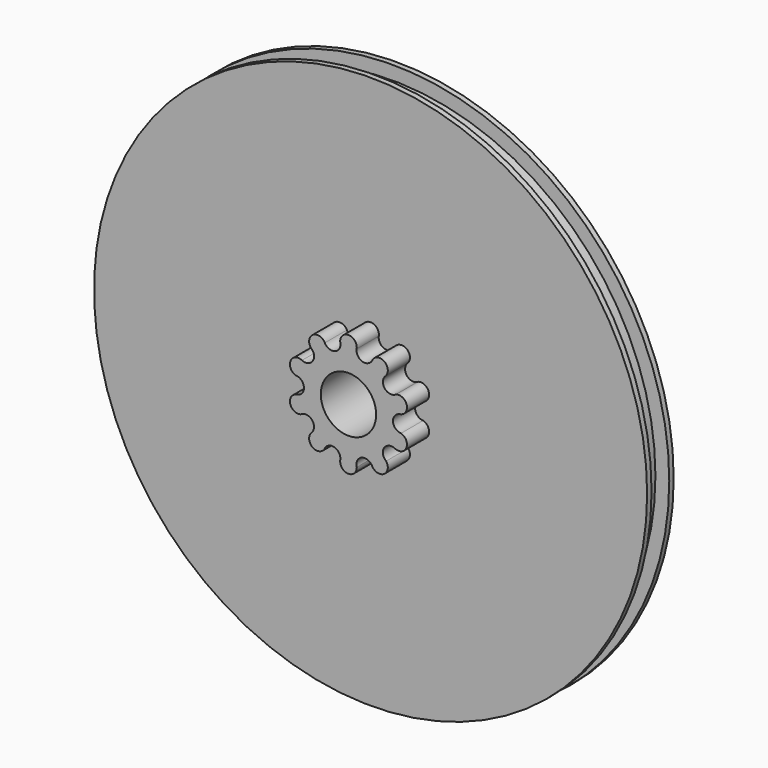
from build123d import *

# Parameters (mm, degrees)
F0_R      = 50
F1_DEPTH  = 1
F2_R      = 47.5
F3_DEPTH  = 4
F4_R      = 50
F4_R_2    = 47.5
F5_DEPTH  = 1
F7_DEPTH  = 6
F8_DEPTH  = 1
F9_R      = 5
F10_DEPTH = 25


with BuildPart() as f1:
    # F0 (on Front) → F1 (new body)
    with BuildSketch(Plane.XZ):
        Circle(F0_R)
    extrude(amount=F1_DEPTH)

    # F2 (on face) → F3 (join)
    with BuildSketch(Plane.XZ.offset(1)):
        Circle(F2_R)
    extrude(amount=F3_DEPTH)

    # F4 (on face) → F5 (join)
    with BuildSketch(Plane.XZ.offset(5)):
        Circle(F4_R)
        Circle(F4_R_2, mode=Mode.SUBTRACT)
    extrude(amount=F5_DEPTH)

    # F6 (on face) → F7 (join)
    with BuildSketch(Plane.XZ.offset(5)):
        with BuildLine():
            ThreePointArc((4.3749025625, 8.5724532519), (2.590430401, 7.6252153584), (1.4813797084, 9.3138855699))
            ThreePointArc((1.4813797084, 9.3138855699), (0.0968585728, 11.046369539), (-1.4993910756, 9.5067635707))
            ThreePointArc((-1.4993910756, 9.5067635707), (-2.3862869161, 7.6915455975), (-4.2761032204, 8.4058248554))
            ThreePointArc((-4.2761032204, 8.4058248554), (-6.4145328749, 8.9936327239), (-6.8009682853, 6.8098133285))
            ThreePointArc((-6.8009682853, 6.8098133285), (-6.4515237381, 4.8199668444), (-8.4002600583, 4.2870247495))
            ThreePointArc((-8.4002600583, 4.2870247495), (-10.4757907864, 3.5056338906), (-9.5048067664, 1.5117458519))
            ThreePointArc((-9.5048067664, 1.5117458519), (-8.0524977714, 0.1073245813), (-9.3158030683, -1.4692731))
            ThreePointArc((-9.3158030683, -1.4692731), (-10.5356526766, -3.3213979368), (-8.5781321192, -4.3637571578))
            ThreePointArc((-8.5781321192, -4.3637571578), (-6.5776913503, -4.6463120239), (-6.6730259387, -6.6643585641))
            ThreePointArc((-6.6730259387, -6.6643585641), (-6.5712533379, -8.8797686425), (-4.3749025625, -8.5724532519))
            ThreePointArc((-4.3749025625, -8.5724532519), (-2.590430401, -7.6252153584), (-1.4813797084, -9.3138855699))
            ThreePointArc((-1.4813797084, -9.3138855699), (-0.0968585728, -11.046369539), (1.4993910756, -9.5067635707))
            ThreePointArc((1.4993910756, -9.5067635707), (2.3862869161, -7.6915455975), (4.2761032204, -8.4058248554))
            ThreePointArc((4.2761032204, -8.4058248554), (6.4145328749, -8.9936327239), (6.8009682853, -6.8098133285))
            ThreePointArc((6.8009682853, -6.8098133285), (6.4515237381, -4.8199668444), (8.4002600583, -4.2870247495))
            ThreePointArc((8.4002600583, -4.2870247495), (10.4757907864, -3.5056338906), (9.5048067664, -1.5117458519))
            ThreePointArc((9.5048067664, -1.5117458519), (8.0524977714, -0.1073245813), (9.3158030683, 1.4692731))
            ThreePointArc((9.3158030683, 1.4692731), (10.5356526766, 3.3213979368), (8.5781321192, 4.3637571578))
            ThreePointArc((8.5781321192, 4.3637571578), (6.5776913503, 4.6463120239), (6.6730259387, 6.6643585641))
            ThreePointArc((6.6730259387, 6.6643585641), (6.5712533379, 8.8797686425), (4.3749025625, 8.5724532519))
        make_face()
    extrude(amount=F7_DEPTH)

    # F8 (add): a face of the model
    f8_faces = [f1.faces().sort_by_distance(p)[0] for p in [
        (-46.1564971157, -5, 0),
    ]]
    extrude(f8_faces, amount=F8_DEPTH)

    # F9 (on face) → F10 (cut)
    with BuildSketch(Plane.XZ.offset(11)):
        Circle(F9_R)
    extrude(amount=-F10_DEPTH, mode=Mode.SUBTRACT)


solid = f1.part
